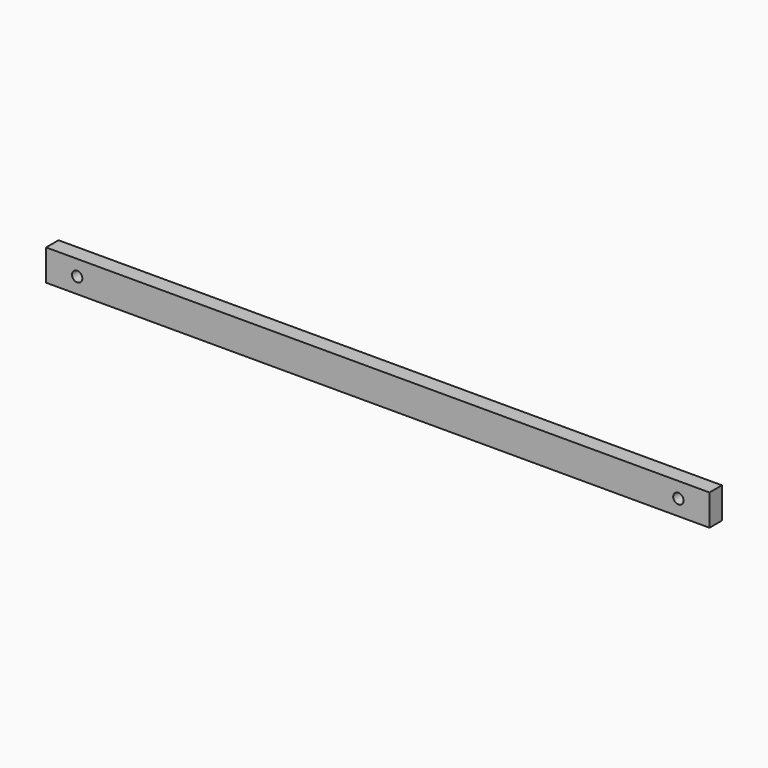
from build123d import *

# Parameters (mm, degrees)
F0_W     = 812.8
F0_H     = 38.1
F1_DEPTH = 19.05
F2_R     = 6.35
F3_DEPTH = 19.051
F4_R     = 6.35
F5_DEPTH = 19.051


with BuildPart() as f1:
    # F0 (on Front) → F1 (new body)
    with BuildSketch(Plane.XZ):
        with Locations((126.299714, 34.519705)):
            Rectangle(F0_W, F0_H)
    extrude(amount=F1_DEPTH)

    # F2 (on face) → F3 (cut, through all)
    with BuildSketch(Plane.XZ.offset(19.05)):
        with Locations((-242.000286, 34.519705)):
            Circle(F2_R)
    extrude(amount=-F3_DEPTH, mode=Mode.SUBTRACT)

    # F4 (on face) → F5 (cut, through all)
    with BuildSketch(Plane.XZ.offset(19.05)):
        with Locations((494.599714, 34.519705)):
            Circle(F4_R)
    extrude(amount=-F5_DEPTH, mode=Mode.SUBTRACT)


solid = f1.part
